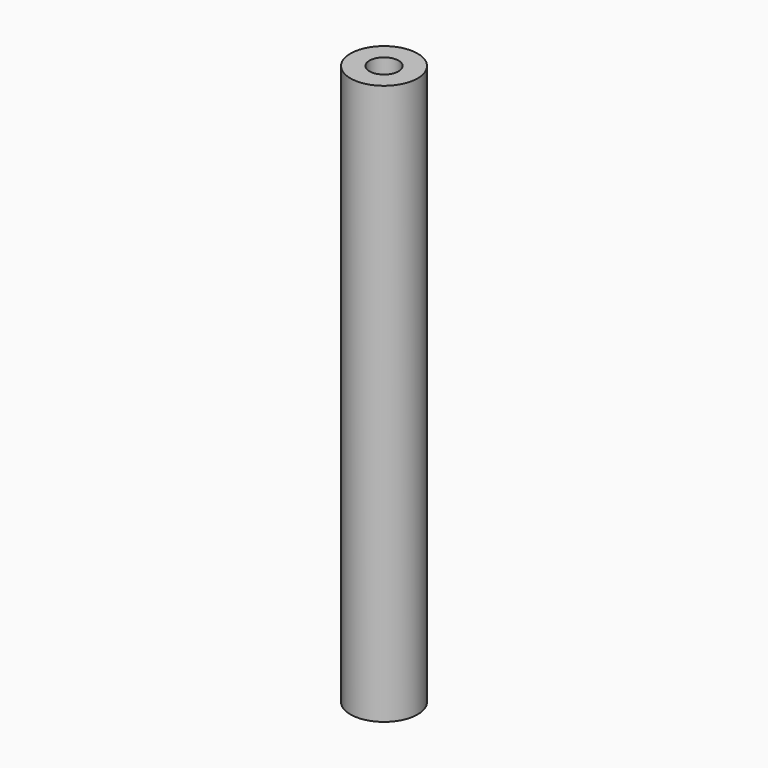
from build123d import *

# Parameters (mm, degrees)
SKETCH_R   = 3
SKETCH_R_2 = 1.3
PAD_DEPTH  = 50


with BuildPart() as part:
    # Sketch → Pad (new body)
    with BuildSketch(Plane.XY):
        Circle(SKETCH_R)
        Circle(SKETCH_R_2, mode=Mode.SUBTRACT)
    extrude(amount=PAD_DEPTH)


solid = part.part
